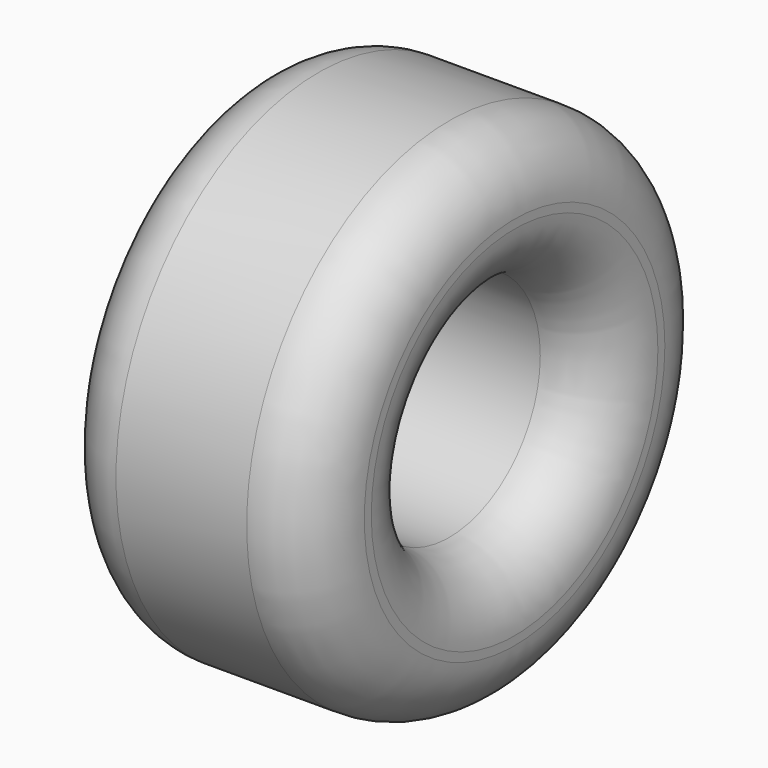
from build123d import *

# Parameters (mm, degrees)
F0_R     = 73.8248
F0_R_2   = 33.180278
F1_DEPTH = 76.2
F2_R     = 19.05


with BuildPart() as f1:
    # F0 (on Right) → F1 (new body)
    with BuildSketch(Plane.YZ):
        with Locations((-26.870236, 9.445795)):
            Circle(F0_R)
        with Locations((-26.870236, 9.445795)):
            Circle(F0_R_2, mode=Mode.SUBTRACT)
    extrude(amount=F1_DEPTH)

    # F2
    f2_edges = [f1.edges().sort_by_distance(p)[0] for p in [
        (38.1, 46.954564, 9.445795),
        (0, -100.695036, 9.445795),
        (76.2, -100.695036, 9.445795),
        (76.2, -60.050514, 9.445795),
    ]]
    fillet(f2_edges, radius=F2_R)


solid = f1.part
